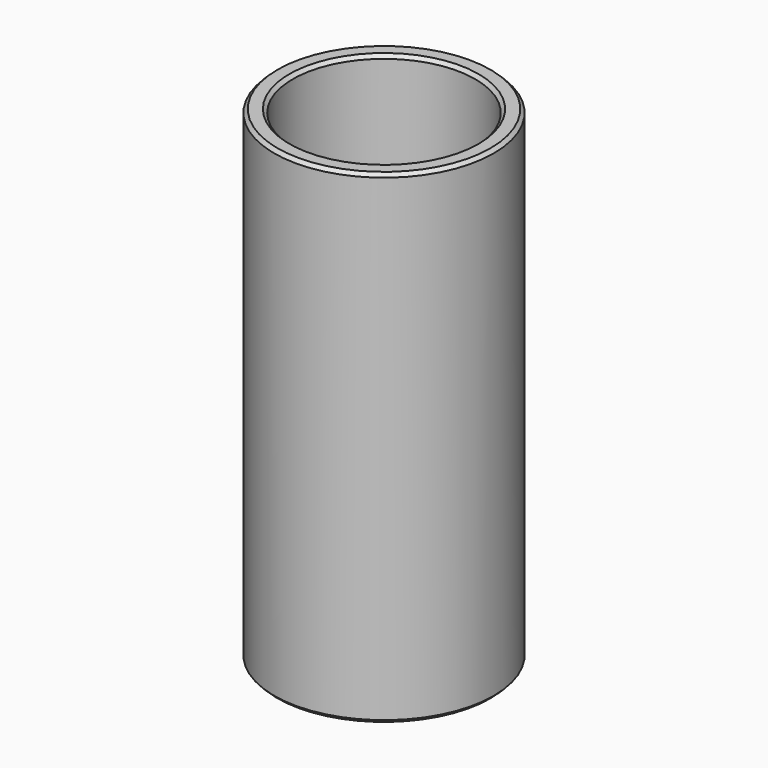
from build123d import *

# Parameters (mm, degrees)
F0_R     = 9.75
F0_R_2   = 8.1
F1_DEPTH = 43
F2_SIZE  = 0.3


with BuildPart() as f1:
    # F0 (on Top) → F1 (new body)
    with BuildSketch(Plane.XY):
        Circle(F0_R)
        Circle(F0_R_2, mode=Mode.SUBTRACT)
    extrude(amount=F1_DEPTH)

    # F2
    f2_edges = [f1.edges().sort_by_distance(p)[0] for p in [
        (9.75, 0, 21.5),
        (-9.75, 0, 0),
        (-9.75, 0, 43),
        (8.1, 0, 21.5),
        (-8.1, 0, 0),
        (-8.1, 0, 43),
    ]]
    chamfer(f2_edges, length=F2_SIZE)


solid = f1.part
